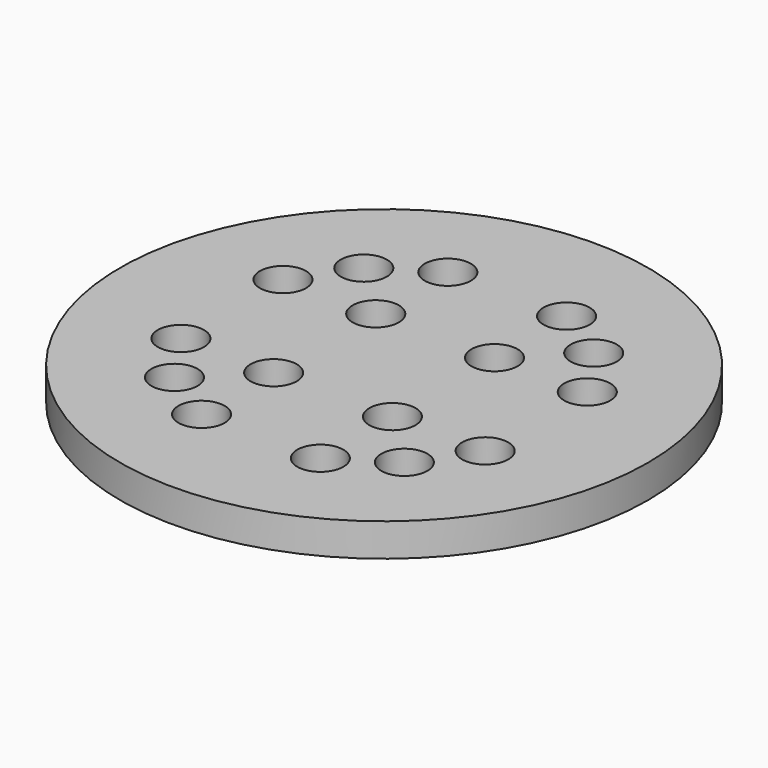
from build123d import *

# Parameters (mm, degrees)
F0_R     = 50.8
F0_R_2   = 4.445
F1_DEPTH = 3.175


with BuildPart() as f1:
    # F0 (on Top) → F1 (new body, symmetric)
    with BuildSketch(Plane.XY):
        Circle(F0_R)
        with Locations((-11.43, -29.621236)):
            Circle(F0_R_2, mode=Mode.SUBTRACT)
        with Locations((-29.279459, -12.279079)):
            Circle(F0_R_2, mode=Mode.SUBTRACT)
        with Locations((-22.124706, -22.77191)):
            Circle(F0_R_2, mode=Mode.SUBTRACT)
        with Locations((-11.43, -12.279079)):
            Circle(F0_R_2, mode=Mode.SUBTRACT)
        with Locations((11.43, -29.621236)):
            Circle(F0_R_2, mode=Mode.SUBTRACT)
        with Locations((22.124706, -22.77191)):
            Circle(F0_R_2, mode=Mode.SUBTRACT)
        with Locations((11.43, -12.279079)):
            Circle(F0_R_2, mode=Mode.SUBTRACT)
        with Locations((29.279459, -12.279079)):
            Circle(F0_R_2, mode=Mode.SUBTRACT)
        with Locations((-29.279459, 12.279079)):
            Circle(F0_R_2, mode=Mode.SUBTRACT)
        with Locations((-11.43, 12.279079)):
            Circle(F0_R_2, mode=Mode.SUBTRACT)
        with Locations((-22.124706, 22.77191)):
            Circle(F0_R_2, mode=Mode.SUBTRACT)
        with Locations((-11.43, 29.621236)):
            Circle(F0_R_2, mode=Mode.SUBTRACT)
        with Locations((11.43, 12.279079)):
            Circle(F0_R_2, mode=Mode.SUBTRACT)
        with Locations((22.124706, 22.77191)):
            Circle(F0_R_2, mode=Mode.SUBTRACT)
        with Locations((29.279459, 12.279079)):
            Circle(F0_R_2, mode=Mode.SUBTRACT)
        with Locations((11.43, 29.621236)):
            Circle(F0_R_2, mode=Mode.SUBTRACT)
    extrude(amount=F1_DEPTH, both=True)


solid = f1.part
